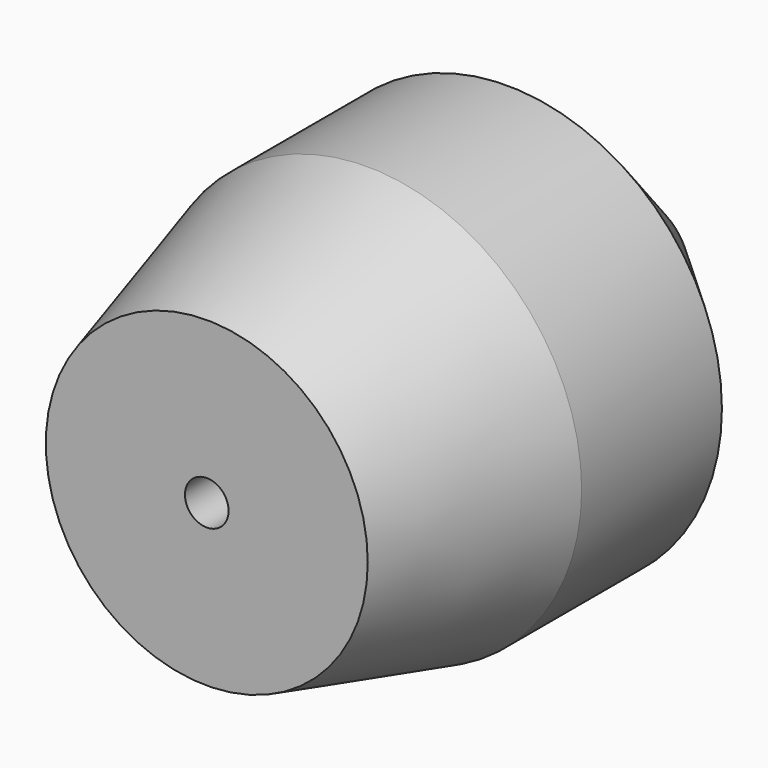
from build123d import *

# Parameters (mm, degrees)
F0_R     = 20
F0_R_2   = 2.032
F1_DEPTH = 50
F2_SIZE2 = 18.6602540378
F2_SIZE  = 5
F3_SIZE  = 15


with BuildPart() as f1:
    # F0 (on Front) → F1 (new body)
    with BuildSketch(Plane.XZ):
        Circle(F0_R)
        Circle(F0_R_2, mode=Mode.SUBTRACT)
    extrude(amount=F1_DEPTH)

    # F2
    f2_edges = [f1.edges().sort_by_distance(p)[0] for p in [
        (-20, -50, 0),
    ]]
    f2_side = f1.faces().sort_by_distance((-19.434315, -50, 0))[0]
    chamfer(f2_edges, length=F2_SIZE, length2=F2_SIZE2, reference=f2_side)

    # F3
    f3_edges = [f1.edges().sort_by_distance(p)[0] for p in [
        (-20, 0, 0),
    ]]
    chamfer(f3_edges, length=F3_SIZE)


solid = f1.part
